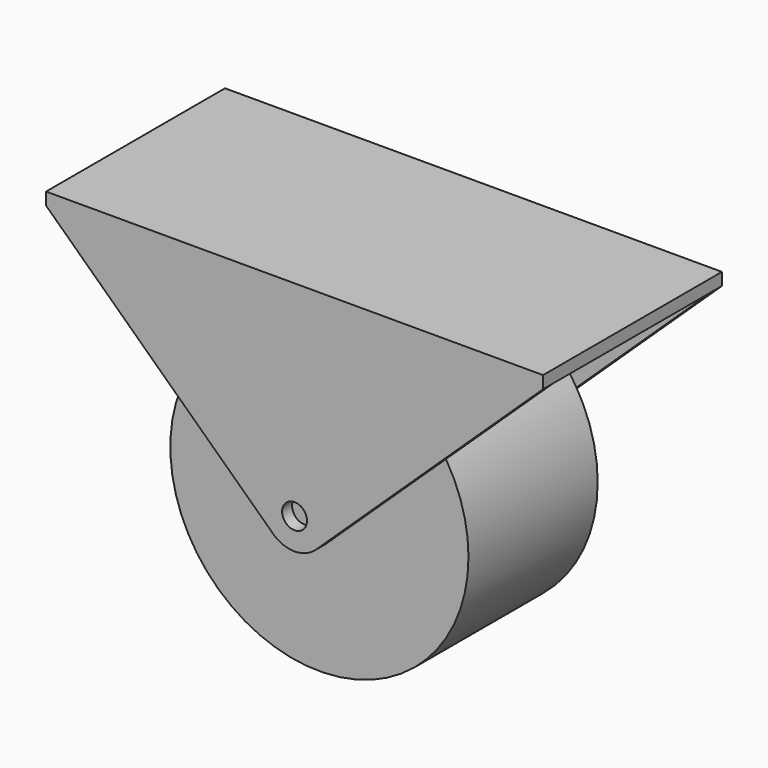
from build123d import *

# Parameters (mm, degrees)
F0_R          = 12
F0_R_2        = 1.5
F1_DEPTH      = 6.5
F1_DEPTH_BACK = 6.5
F3_W          = 40
F3_H          = 18
F4_DEPTH      = 1
F6_DEPTH      = 1
F8_DEPTH      = 1
F9_R          = 1
F10_DEPTH     = 18.001


with BuildPart() as f1:
    # F0 (on Front) → F1 (new body, two sides)
    with BuildSketch(Plane.XZ) as f1_sk:
        Circle(F0_R)
        Circle(F0_R_2, mode=Mode.SUBTRACT)
    extrude(amount=F1_DEPTH)
    extrude(f1_sk.sketch, amount=-F1_DEPTH_BACK)


with BuildPart() as f4:
    # F3 (on offset) → F4 (new body)
    with BuildSketch(Plane.XY.offset(16.5)):
        Rectangle(F3_W, F3_H)
    extrude(amount=-F4_DEPTH)

    # F5 (on face) → F6 (join)
    with BuildSketch(Plane.XZ.offset(9)):
        with BuildLine():
            ThreePointArc((-1.719172, -1.815061), (-0.987945, 2.296512), (2.5, 0))
            ThreePointArc((2.5, 0), (2.296512, -0.987945), (1.719172, -1.815061))
            Line((1.719172, -1.815061), (20, 15.5))
            Line((20, 15.5), (-20, 15.5))
            Line((-20, 15.5), (-1.719172, -1.815061))
        make_face()
        with BuildLine():
            ThreePointArc((1.719172, -1.815061), (2.296512, -0.987945), (2.5, 0))
            ThreePointArc((2.5, 0), (-0.987945, 2.296512), (-1.719172, -1.815061))
            ThreePointArc((-1.719172, -1.815061), (0, -2.5), (1.719172, -1.815061))
        make_face()
    extrude(amount=-F6_DEPTH)

    # F7 (on face) → F8 (join)
    with BuildSketch(Plane(origin=(0, 9, 0), x_dir=(-1, 0, 0), z_dir=(0, 1, 0))):
        with BuildLine():
            ThreePointArc((-1.719172, -1.815061), (0, -2.5), (1.719172, -1.815061))
            Line((1.719172, -1.815061), (20, 15.5))
            Line((20, 15.5), (-20, 15.5))
            Line((-20, 15.5), (-1.719172, -1.815061))
        make_face()
    extrude(amount=-F8_DEPTH)

    # F9 (on face) → F10 (cut, through all)
    with BuildSketch(Plane(origin=(0, 9, 0), x_dir=(-1, 0, 0), z_dir=(0, 1, 0))):
        Circle(F9_R)
    extrude(amount=-F10_DEPTH, mode=Mode.SUBTRACT)


solid = Compound([f1.part, f4.part])
